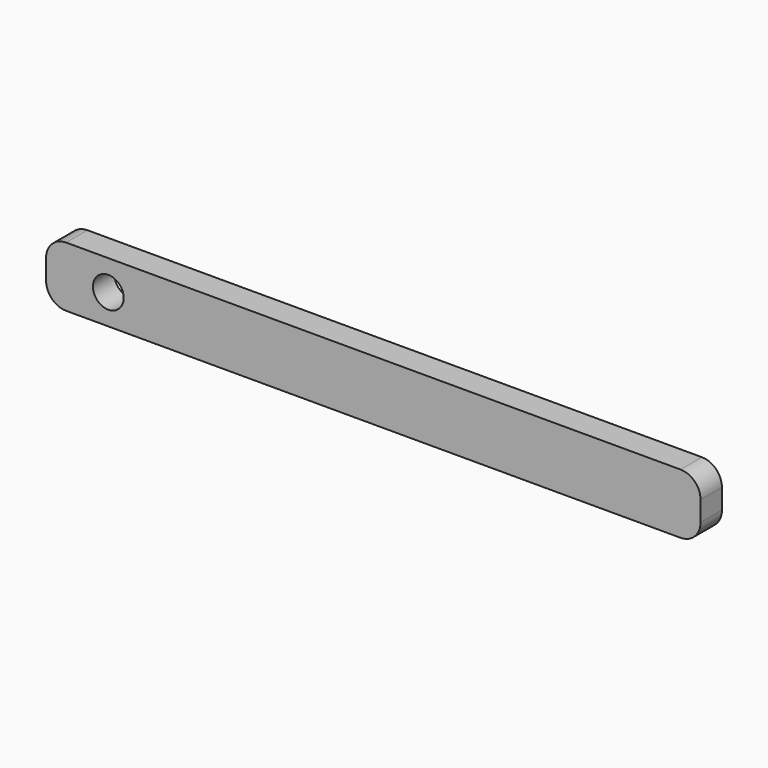
from build123d import *

# Parameters (mm, degrees)
F0_R     = 2.3
F1_DEPTH = 4


with BuildPart() as f1:
    # F0 (on Front) → F1 (new body)
    with BuildSketch(Plane.XZ):
        with BuildLine():
            Line((26.729051, 35.495812), (-65.270949, 35.495812))
            ThreePointArc((-65.270949, 35.495812), (-67.39227, 34.617132), (-68.270949, 32.495812))
            Line((-68.270949, 32.495812), (-68.270949, 29.495812))
            ThreePointArc((-68.270949, 29.495812), (-67.39227, 27.374491), (-65.270949, 26.495812))
            Line((-65.270949, 26.495812), (26.729051, 26.495812))
            ThreePointArc((26.729051, 26.495812), (28.850371, 27.374491), (29.729051, 29.495812))
            Line((29.729051, 29.495812), (29.729051, 32.495812))
            ThreePointArc((29.729051, 32.495812), (28.850371, 34.617132), (26.729051, 35.495812))
        make_face()
        with Locations((-58.952514, 30.995812)):
            Circle(F0_R, mode=Mode.SUBTRACT)
    extrude(amount=F1_DEPTH)


solid = f1.part
